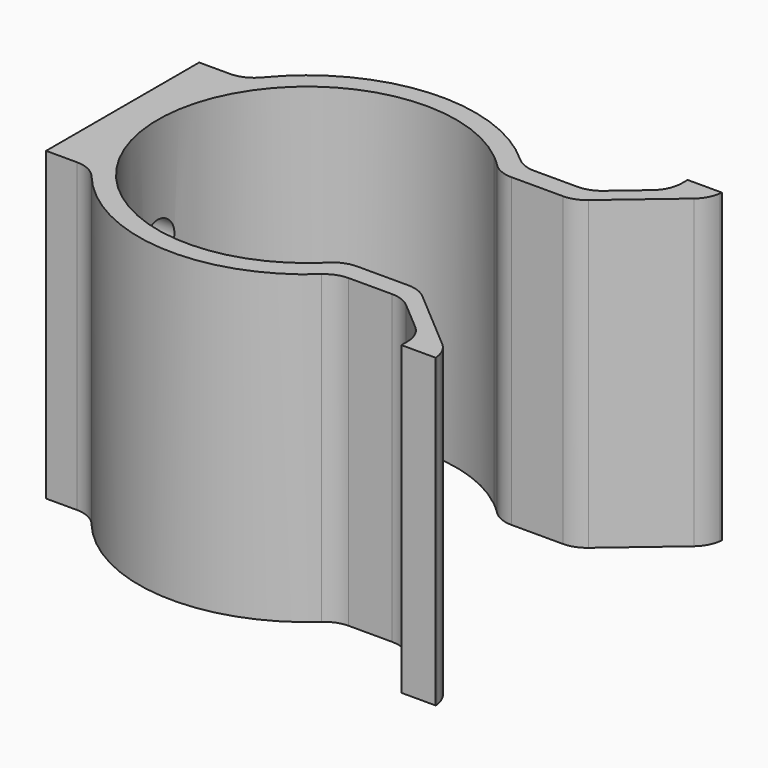
from build123d import *

# Parameters (mm, degrees)
F1_DEPTH = 50.8
F2_R     = 3.175
F3_DEPTH = 127
F5_DEPTH = 50.8
F6_DEPTH = 279.4
F7_R     = 5.08


with BuildPart() as f1:
    # F0 (on Top) → F1 (new body)
    with BuildSketch(Plane.XY):
        with BuildLine():
            ThreePointArc((20.2399183732, 19.2610826343), (21.625356316, 17.6914545532), (22.8893718502, 16.0224922001))
            Line((22.8893718502, 16.0224922001), (31.4840450883, 16.0224922001))
            Line((31.4840450883, 16.0224922001), (44.7927798103, 27.3874809633))
            Line((44.7927798103, 27.3874809633), (45.0897253182, 29.6793562902))
            Line((45.0897253182, 29.6793562902), (39.3924824893, 29.6793562902))
            Line((39.3924824893, 29.6793562902), (39.3924824893, 26.1115133762))
            Line((39.3924824893, 26.1115133762), (31.3704274416, 19.2610826343))
            Line((31.3704274416, 19.2610826343), (20.2399183732, 19.2610826343))
        make_face()
        with BuildLine():
            Line((31.4840450883, -16.0224922001), (22.8893718502, -16.0224922001))
            ThreePointArc((22.8893718502, -16.0224922001), (21.625356316, -17.6914545532), (20.2399183732, -19.2610826343))
            Line((20.2399183732, -19.2610826343), (31.3704274416, -19.2610826343))
            Line((31.3704274416, -19.2610826343), (39.3924824893, -26.1115133762))
            Line((39.3924824893, -26.1115133762), (39.3924824893, -29.6793562902))
            Line((39.3924824893, -29.6793562902), (45.0897253182, -29.6793562902))
            Line((45.0897253182, -29.6793562902), (44.7927798103, -27.3874809633))
            Line((44.7927798103, -27.3874809633), (31.4840450883, -16.0224922001))
        make_face()
        with BuildLine():
            ThreePointArc((15.5664999519, -19.2610826343), (-24.765, 0), (15.5664999519, 19.2610826343))
            Line((15.5664999519, 19.2610826343), (20.2399183732, 19.2610826343))
            ThreePointArc((20.2399183732, 19.2610826343), (-27.94, 0), (20.2399183732, -19.2610826343))
            Line((20.2399183732, -19.2610826343), (15.5664999519, -19.2610826343))
        make_face()
        with BuildLine():
            ThreePointArc((15.5664999519, 19.2610826343), (17.3009251144, 17.7195715294), (18.8834575408, 16.0224922001))
            Line((18.8834575408, 16.0224922001), (22.8893718502, 16.0224922001))
            ThreePointArc((22.8893718502, 16.0224922001), (21.625356316, 17.6914545532), (20.2399183732, 19.2610826343))
            Line((20.2399183732, 19.2610826343), (15.5664999519, 19.2610826343))
        make_face()
        with BuildLine():
            Line((22.8893718502, -16.0224922001), (18.8834575408, -16.0224922001))
            ThreePointArc((18.8834575408, -16.0224922001), (17.3009251144, -17.7195715294), (15.5664999519, -19.2610826343))
            Line((15.5664999519, -19.2610826343), (20.2399183732, -19.2610826343))
            ThreePointArc((20.2399183732, -19.2610826343), (21.625356316, -17.6914545532), (22.8893718502, -16.0224922001))
        make_face()
    extrude(amount=F1_DEPTH)

    # F2 (on Right) → F3 (cut)
    with BuildSketch(Plane.YZ):
        with Locations((0, 33.02)):
            Circle(F2_R)
        with Locations((0, 17.78)):
            Circle(F2_R)
    extrude(amount=-F3_DEPTH, mode=Mode.SUBTRACT)

    # F4 (on face) → F5 (join)
    with BuildSketch(Plane.XY.offset(50.8)):
        Polygon((-26.6156196594, 0), (-22.9919110776, 15.875), (-30.6119110776, 15.875), (-30.6119110776, -15.875), (-22.9919110776, -15.875), align=None)
    extrude(amount=-F5_DEPTH)

    # F2 (on Right) → F6 (cut)
    with BuildSketch(Plane.YZ):
        with Locations((0, 33.02)):
            Circle(F2_R)
        with Locations((0, 17.78)):
            Circle(F2_R)
    extrude(amount=-F6_DEPTH, mode=Mode.SUBTRACT)

    # F7
    f7_edges = [f1.edges().sort_by_distance(p)[0] for p in [
        (-22.991911, 15.875, 25.4),
        (-22.991911, -15.875, 25.4),
        (20.239918, -19.261083, 25.4),
        (31.370427, -19.261083, 25.4),
        (39.392482, -26.111513, 25.4),
        (31.484045, -16.022492, 25.4),
        (18.883458, -16.022492, 25.4),
        (44.79278, -27.387481, 25.4),
        (44.79278, 27.387481, 25.4),
        (31.484045, 16.022492, 25.4),
        (31.370427, 19.261083, 25.4),
        (39.392482, 26.111513, 25.4),
        (20.239918, 19.261083, 25.4),
        (18.883458, 16.022492, 25.4),
    ]]
    fillet(f7_edges, radius=F7_R)


solid = f1.part
